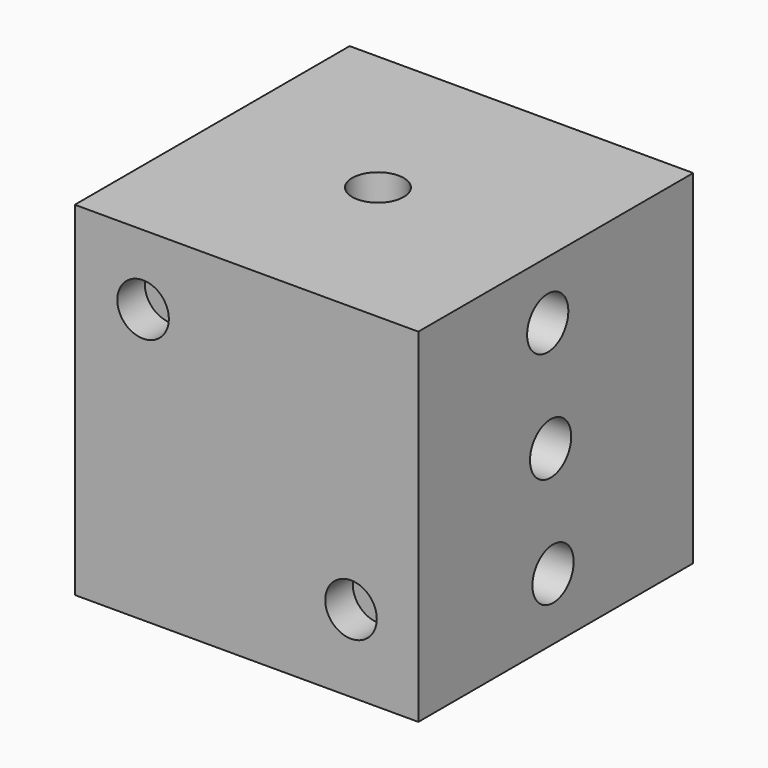
from build123d import *

# Parameters (mm, degrees)
F0_W      = 20
F0_H      = 20
F1_DEPTH  = 20
F2_R      = 1.5
F3_DEPTH  = 2
F4_R      = 1.5
F5_DEPTH  = 2
F6_R      = 1.5
F7_DEPTH  = 2
F8_R      = 1.5
F9_DEPTH  = 2
F10_R     = 1.5
F11_DEPTH = 2
F12_R     = 1.5
F13_DEPTH = 2


with BuildPart() as f1:
    # F0 (on Top) → F1 (new body)
    with BuildSketch(Plane.XY):
        with Locations((-22.53249, -11.250252)):
            Rectangle(F0_W, F0_H)
    extrude(amount=F1_DEPTH)

    # F2 (on face) → F3 (cut)
    with BuildSketch(Plane.XY.offset(20)):
        with Locations((-22.833129, -11.315533)):
            Circle(F2_R)
    extrude(amount=-F3_DEPTH, mode=Mode.SUBTRACT)

    # F4 (on face) → F5 (cut)
    with BuildSketch(Plane.XZ.offset(21.250252)):
        with Locations((-28.556654, 15.928326)):
            Circle(F4_R)
        with Locations((-16.452408, 4.484393)):
            Circle(F4_R)
    extrude(amount=-F5_DEPTH, mode=Mode.SUBTRACT)

    # F6 (on face) → F7 (cut)
    with BuildSketch(Plane.YZ.offset(-12.53249)):
        with Locations((-11.837029, 16.616692)):
            Circle(F6_R)
        with Locations((-11.448925, 3.613711)):
            Circle(F6_R)
        with Locations((-11.627831, 10.102251)):
            Circle(F6_R)
    extrude(amount=-F7_DEPTH, mode=Mode.SUBTRACT)

    # F8 (on face) → F9 (cut)
    with BuildSketch(Plane(origin=(0, -1.250252, 0), x_dir=(-1, 0, 0), z_dir=(0, 1, 0))):
        with Locations((16.232165, 16.211085)):
            Circle(F8_R)
        with Locations((29.102561, 16.407891)):
            Circle(F8_R)
        with Locations((28.863132, 3.995854)):
            Circle(F8_R)
        with Locations((16.077781, 4.228219)):
            Circle(F8_R)
    extrude(amount=-F9_DEPTH, mode=Mode.SUBTRACT)

    # F10 (on face) → F11 (cut)
    with BuildSketch(Plane(origin=(-32.53249, 0, 0), x_dir=(0, -1, 0), z_dir=(-1, 0, 0))):
        with Locations((18.142659, 16.85593)):
            Circle(F10_R)
        with Locations((17.976478, 3.165177)):
            Circle(F10_R)
        with Locations((4.45046, 16.641465)):
            Circle(F10_R)
        with Locations((10.722963, 9.346528)):
            Circle(F10_R)
        with Locations((4.027196, 2.76337)):
            Circle(F10_R)
    extrude(amount=-F11_DEPTH, mode=Mode.SUBTRACT)

    # F12 (on face) → F13 (cut)
    with BuildSketch(Plane(origin=(0, 0, 0), x_dir=(1, 0, 0), z_dir=(0, 0, -1))):
        with Locations((-15.62013, 17.110417)):
            Circle(F12_R)
        with Locations((-22.286659, 17.470592)):
            Circle(F12_R)
        with Locations((-29.12412, 17.320384)):
            Circle(F12_R)
        with Locations((-29.280099, 6.113375)):
            Circle(F12_R)
        with Locations((-22.681733, 6.085219)):
            Circle(F12_R)
        with Locations((-15.74056, 5.76421)):
            Circle(F12_R)
    extrude(amount=-F13_DEPTH, mode=Mode.SUBTRACT)


solid = f1.part
